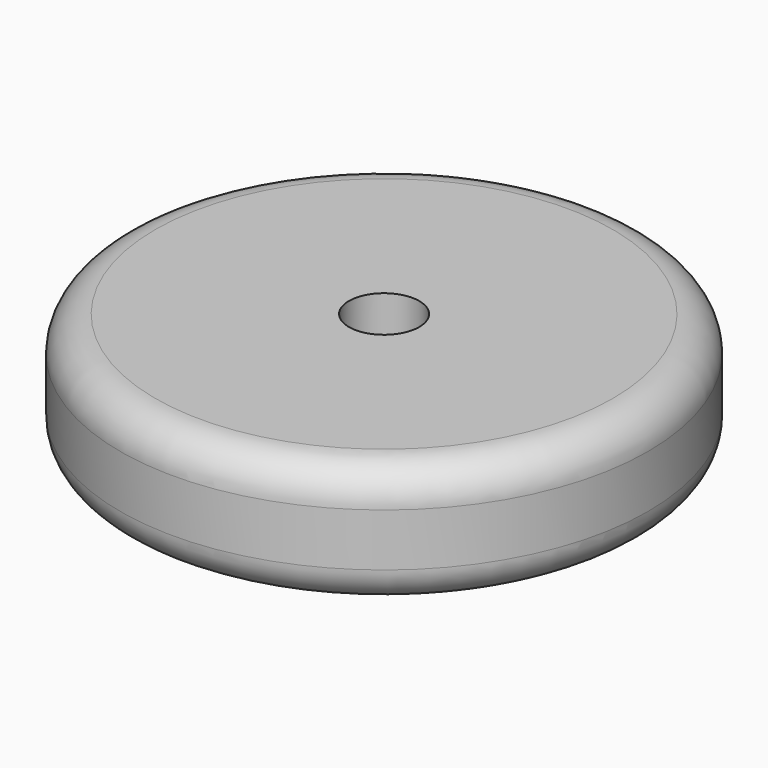
from build123d import *

# Parameters (mm, degrees)
F0_R     = 15
F0_R_2   = 2
F1_DEPTH = 7
F2_R     = 2
F3_R     = 2


with BuildPart() as f1:
    # F0 (on Top) → F1 (new body)
    with BuildSketch(Plane.XY):
        Circle(F0_R)
        Circle(F0_R_2, mode=Mode.SUBTRACT)
    extrude(amount=F1_DEPTH)

    # F2
    f2_edges = [f1.edges().sort_by_distance(p)[0] for p in [
        (-15, 0, 7),
    ]]
    fillet(f2_edges, radius=F2_R)

    # F3
    f3_edges = [f1.edges().sort_by_distance(p)[0] for p in [
        (-15, 0, 0),
    ]]
    fillet(f3_edges, radius=F3_R)


solid = f1.part
